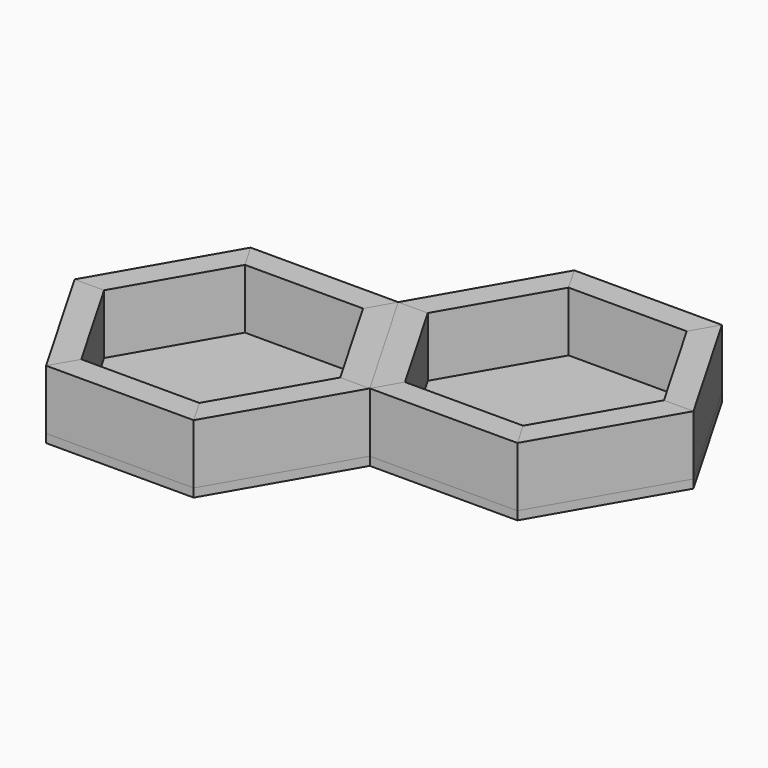
from build123d import *

# Parameters (mm, degrees)
F1_DEPTH = 88.9
F2_DEPTH = 88.9
F3_DEPTH = 12.7


with BuildPart() as f1:
    # F0 (on Top) → F1 (new body)
    with BuildSketch(Plane.XY):
        Polygon((-175.976362, 0), (-87.988181, 152.4), (-109.985226, 190.5), (-219.970453, 0), align=None)
        Polygon((87.988181, 152.4), (175.976362, 0), (219.970453, 0), (109.985226, 190.5), align=None)
        Polygon((109.985226, -190.5), (87.988181, -152.4), (-87.988181, -152.4), (-109.985226, -190.5), align=None)
    extrude(amount=F1_DEPTH)


with BuildPart() as f2:
    # F0 (on Top) → F2 (new body)
    with BuildSketch(Plane.XY):
        Polygon((-87.988181, 152.4), (87.988181, 152.4), (109.985226, 190.5), (-109.985226, 190.5), align=None)
        Polygon((-109.985226, -190.5), (-87.988181, -152.4), (-175.976362, 0), (-219.970453, 0), align=None)
        Polygon((219.970453, 0), (175.976362, 0), (87.988181, -152.4), (109.985226, -190.5), align=None)
    extrude(amount=F2_DEPTH)


with BuildPart() as f3:
    # F0 (on Top) → F3 (new body)
    with BuildSketch(Plane.XY):
        Polygon((-109.985226, -190.5), (-87.988181, -152.4), (-175.976362, 0), (-219.970453, 0), align=None)
        Polygon((-175.976362, 0), (-87.988181, 152.4), (-109.985226, 190.5), (-219.970453, 0), align=None)
        Polygon((109.985226, -190.5), (87.988181, -152.4), (-87.988181, -152.4), (-109.985226, -190.5), align=None)
        Polygon((-87.988181, 152.4), (87.988181, 152.4), (109.985226, 190.5), (-109.985226, 190.5), align=None)
        Polygon((87.988181, 152.4), (175.976362, 0), (219.970453, 0), (109.985226, 190.5), align=None)
        Polygon((87.988181, -152.4), (175.976362, 0), (87.988181, 152.4), (-87.988181, 152.4), (-175.976362, 0), (-87.988181, -152.4), align=None)
        Polygon((219.970453, 0), (175.976362, 0), (87.988181, -152.4), (109.985226, -190.5), align=None)
    extrude(amount=-F3_DEPTH)


with BuildPart() as f4_1:
    # F4: instance of F2
    add(f2.part.mirror(Plane(origin=(-164.977839, -95.25, 44.45), x_dir=(0.5, -0.866025, 0), z_dir=(-0.866025, -0.5, 0))))


with BuildPart() as f4_2:
    # F4: instance of F1
    add(f1.part.mirror(Plane(origin=(-164.977839, -95.25, 44.45), x_dir=(0.5, -0.866025, 0), z_dir=(-0.866025, -0.5, 0))))


with BuildPart() as f4_3:
    # F4: instance of F3
    add(f3.part.mirror(Plane(origin=(-164.977839, -95.25, 44.45), x_dir=(0.5, -0.866025, 0), z_dir=(-0.866025, -0.5, 0))))


solid = Compound([f1.part, f2.part, f3.part, f4_1.part, f4_2.part, f4_3.part])
